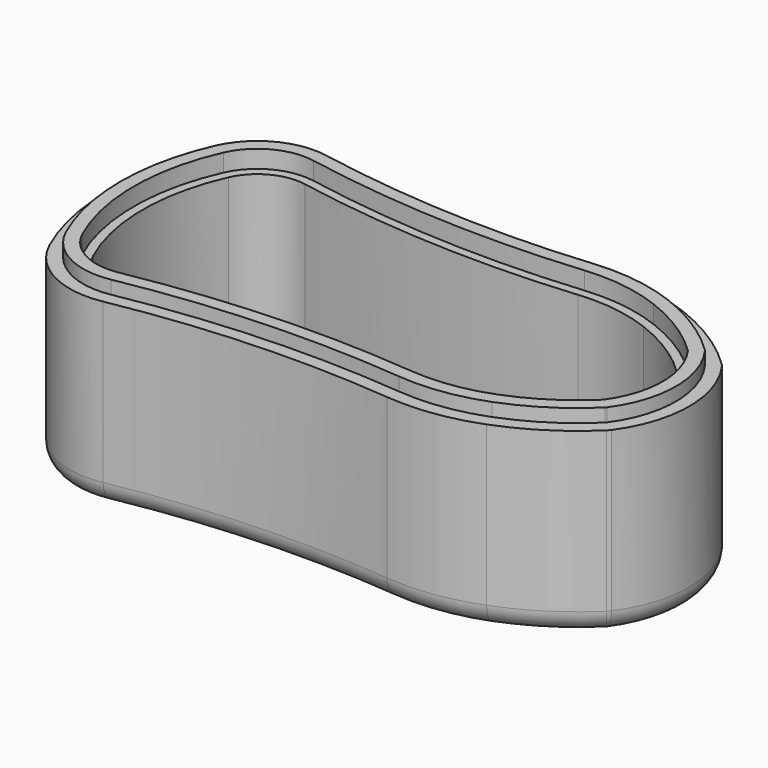
from build123d import *

# Parameters (mm, degrees)
SKETCH002_W      = 40
SKETCH002_H      = 8.019775
EXTRUDE003_DEPTH = 5
SKETCH001_W      = 49
SKETCH001_H      = 1.5
EXTRUDE002_DEPTH = 2.5
THICKNESS002_T   = 2
EXTRUDE005_DEPTH = 2
THICKNESS004_T   = 1
EXTRUDE004_DEPTH = 18
THICKNESS003_T   = 2.5
EXTRUDE007_DEPTH = 19.5
THICKNESS006_T   = -0.5
EXTRUDE006_DEPTH = 17.5
THICKNESS005_T   = -1.5
EXTRUDE_DEPTH    = 19.5
THICKNESS_T      = 1


with BuildPart() as extrude003:
    # Sketch002 → Extrude003 (new body)
    with BuildSketch(Plane.XY):
        with Locations((-0.8157, 5.987844)):
            Rectangle(SKETCH002_W, SKETCH002_H)
    extrude(amount=EXTRUDE003_DEPTH)


with BuildPart() as thickness002:
    # Sketch001 → Extrude002 (new body)
    with BuildSketch(Plane.XY):
        with Locations((-0.756374, 6.75)):
            Rectangle(SKETCH001_W, SKETCH001_H)
    extrude(amount=EXTRUDE002_DEPTH)


with BuildPart() as thickness002_1:
    # Extrude002 placement: moved
    add(thickness002.part.moved(Location((0, 0, 2))))

    # Thickness002
    thickness002_openings = [thickness002_1.faces().sort_by_distance(p)[0] for p in [
        (-0.756374, 6.75, 4.5),
    ]]
    offset(amount=THICKNESS002_T, openings=thickness002_openings)


with BuildPart() as cut002:
    # Cut002 base: copy of Thickness002
    add(thickness002_1.part)

    # Cut002: cut Extrude003
    add(extrude003.part, mode=Mode.SUBTRACT)


with BuildPart() as cut002_1:
    # Cut002 placement: moved
    add(cut002.part.moved(Location((-1, -1, -2))))


with BuildPart() as thickness004:
    # Sketch → Extrude005 (new body)
    with BuildSketch(Plane.XY):
        with BuildLine():
            ThreePointArc((-28.698767, 10.180459), (-30.891087, 0), (-28.698767, -10.180459))
            ThreePointArc((-28.698767, -10.180459), (-25.538682, -13.527635), (-20.986633, -14.212156))
            ThreePointArc((10.657916, -12.777257), (-5.213894, -12.402265), (-20.986633, -14.212156))
            ThreePointArc((10.657916, -12.777257), (15.241774, -12.674091), (19.681266, -11.528095))
            ThreePointArc((19.681266, -11.528095), (24.011981, -9.338616), (27.818909, -6.329262))
            ThreePointArc((27.818909, -6.329262), (29.881043, 0), (27.818909, 6.329262))
            ThreePointArc((27.818909, 6.329262), (24.011981, 9.338616), (19.681266, 11.528095))
            ThreePointArc((19.681266, 11.528095), (15.241774, 12.674091), (10.657916, 12.777257))
            ThreePointArc((-20.986633, 14.212156), (-5.213894, 12.402265), (10.657916, 12.777257))
            ThreePointArc((-20.986633, 14.212156), (-25.538682, 13.527635), (-28.698767, 10.180459))
        make_face()
    extrude(amount=EXTRUDE005_DEPTH)


with BuildPart() as thickness004_1:
    # Extrude005 placement: moved
    add(thickness004.part.moved(Location((0, 0, 16))))

    # Thickness004
    thickness004_openings = [thickness004_1.faces().sort_by_distance(p)[0] for p in [
        (-2.029608, 0, 18),
    ]]
    offset(amount=THICKNESS004_T, openings=thickness004_openings)


with BuildPart() as fusion002:
    # Sketch → Extrude004 (new body)
    with BuildSketch(Plane.XY):
        with BuildLine():
            ThreePointArc((-28.698767, 10.180459), (-30.891087, 0), (-28.698767, -10.180459))
            ThreePointArc((-28.698767, -10.180459), (-25.538682, -13.527635), (-20.986633, -14.212156))
            ThreePointArc((10.657916, -12.777257), (-5.213894, -12.402265), (-20.986633, -14.212156))
            ThreePointArc((10.657916, -12.777257), (15.241774, -12.674091), (19.681266, -11.528095))
            ThreePointArc((19.681266, -11.528095), (24.011981, -9.338616), (27.818909, -6.329262))
            ThreePointArc((27.818909, -6.329262), (29.881043, 0), (27.818909, 6.329262))
            ThreePointArc((27.818909, 6.329262), (24.011981, 9.338616), (19.681266, 11.528095))
            ThreePointArc((19.681266, 11.528095), (15.241774, 12.674091), (10.657916, 12.777257))
            ThreePointArc((-20.986633, 14.212156), (-5.213894, 12.402265), (10.657916, 12.777257))
            ThreePointArc((-20.986633, 14.212156), (-25.538682, 13.527635), (-28.698767, 10.180459))
        make_face()
    extrude(amount=EXTRUDE004_DEPTH)

    # Thickness003
    thickness003_openings = [fusion002.faces().sort_by_distance(p)[0] for p in [
        (-2.029608, 0, 18),
    ]]
    offset(amount=THICKNESS003_T, openings=thickness003_openings)

    # Cut001: cut Thickness004
    add(thickness004_1.part, mode=Mode.SUBTRACT)

    # Fusion002: union Cut002
    add(cut002_1.part)


with BuildPart() as thickness006:
    # Sketch → Extrude007 (new body)
    with BuildSketch(Plane.XY):
        with BuildLine():
            ThreePointArc((-28.698767, 10.180459), (-30.891087, 0), (-28.698767, -10.180459))
            ThreePointArc((-28.698767, -10.180459), (-25.538682, -13.527635), (-20.986633, -14.212156))
            ThreePointArc((10.657916, -12.777257), (-5.213894, -12.402265), (-20.986633, -14.212156))
            ThreePointArc((10.657916, -12.777257), (15.241774, -12.674091), (19.681266, -11.528095))
            ThreePointArc((19.681266, -11.528095), (24.011981, -9.338616), (27.818909, -6.329262))
            ThreePointArc((27.818909, -6.329262), (29.881043, 0), (27.818909, 6.329262))
            ThreePointArc((27.818909, 6.329262), (24.011981, 9.338616), (19.681266, 11.528095))
            ThreePointArc((19.681266, 11.528095), (15.241774, 12.674091), (10.657916, 12.777257))
            ThreePointArc((-20.986633, 14.212156), (-5.213894, 12.402265), (10.657916, 12.777257))
            ThreePointArc((-20.986633, 14.212156), (-25.538682, 13.527635), (-28.698767, 10.180459))
        make_face()
    extrude(amount=EXTRUDE007_DEPTH)

    # Thickness006
    thickness006_openings = [thickness006.faces().sort_by_distance(p)[0] for p in [
        (-2.029608, 0, 19.5),
    ]]
    offset(amount=THICKNESS006_T, openings=thickness006_openings, kind=Kind.INTERSECTION)


with BuildPart() as thickness005:
    # Sketch → Extrude006 (new body)
    with BuildSketch(Plane.XY):
        with BuildLine():
            ThreePointArc((-28.698767, 10.180459), (-30.891087, 0), (-28.698767, -10.180459))
            ThreePointArc((-28.698767, -10.180459), (-25.538682, -13.527635), (-20.986633, -14.212156))
            ThreePointArc((10.657916, -12.777257), (-5.213894, -12.402265), (-20.986633, -14.212156))
            ThreePointArc((10.657916, -12.777257), (15.241774, -12.674091), (19.681266, -11.528095))
            ThreePointArc((19.681266, -11.528095), (24.011981, -9.338616), (27.818909, -6.329262))
            ThreePointArc((27.818909, -6.329262), (29.881043, 0), (27.818909, 6.329262))
            ThreePointArc((27.818909, 6.329262), (24.011981, 9.338616), (19.681266, 11.528095))
            ThreePointArc((19.681266, 11.528095), (15.241774, 12.674091), (10.657916, 12.777257))
            ThreePointArc((-20.986633, 14.212156), (-5.213894, 12.402265), (10.657916, 12.777257))
            ThreePointArc((-20.986633, 14.212156), (-25.538682, 13.527635), (-28.698767, 10.180459))
        make_face()
    extrude(amount=EXTRUDE006_DEPTH)

    # Thickness005
    thickness005_openings = [thickness005.faces().sort_by_distance(p)[0] for p in [
        (-2.029608, 0, 17.5),
    ]]
    offset(amount=THICKNESS005_T, openings=thickness005_openings, kind=Kind.INTERSECTION)


with BuildPart() as thickness:
    # Sketch → Extrude (new body)
    with BuildSketch(Plane.XY):
        with BuildLine():
            ThreePointArc((-28.698767, 10.180459), (-30.891087, 0), (-28.698767, -10.180459))
            ThreePointArc((-28.698767, -10.180459), (-25.538682, -13.527635), (-20.986633, -14.212156))
            ThreePointArc((10.657916, -12.777257), (-5.213894, -12.402265), (-20.986633, -14.212156))
            ThreePointArc((10.657916, -12.777257), (15.241774, -12.674091), (19.681266, -11.528095))
            ThreePointArc((19.681266, -11.528095), (24.011981, -9.338616), (27.818909, -6.329262))
            ThreePointArc((27.818909, -6.329262), (29.881043, 0), (27.818909, 6.329262))
            ThreePointArc((27.818909, 6.329262), (24.011981, 9.338616), (19.681266, 11.528095))
            ThreePointArc((19.681266, 11.528095), (15.241774, 12.674091), (10.657916, 12.777257))
            ThreePointArc((-20.986633, 14.212156), (-5.213894, 12.402265), (10.657916, 12.777257))
            ThreePointArc((-20.986633, 14.212156), (-25.538682, 13.527635), (-28.698767, 10.180459))
        make_face()
    extrude(amount=EXTRUDE_DEPTH)

    # Thickness
    thickness_openings = [thickness.faces().sort_by_distance(p)[0] for p in [
        (-2.029608, 0, 19.5),
    ]]
    offset(amount=THICKNESS_T, openings=thickness_openings)


with BuildPart() as fusion:
    # Cut base: copy of Thickness002
    add(thickness002_1.part)

    # Cut: cut Extrude003
    add(extrude003.part, mode=Mode.SUBTRACT)


with BuildPart() as fusion_1:
    # Cut placement: moved
    add(fusion.part.moved(Location((-1, -1, -0.5))))

    # Fusion: union Thickness006, Thickness005, Thickness
    add(thickness006.part)
    add(thickness005.part)
    add(thickness.part)


solid = Compound([fusion002.part, fusion_1.part])
